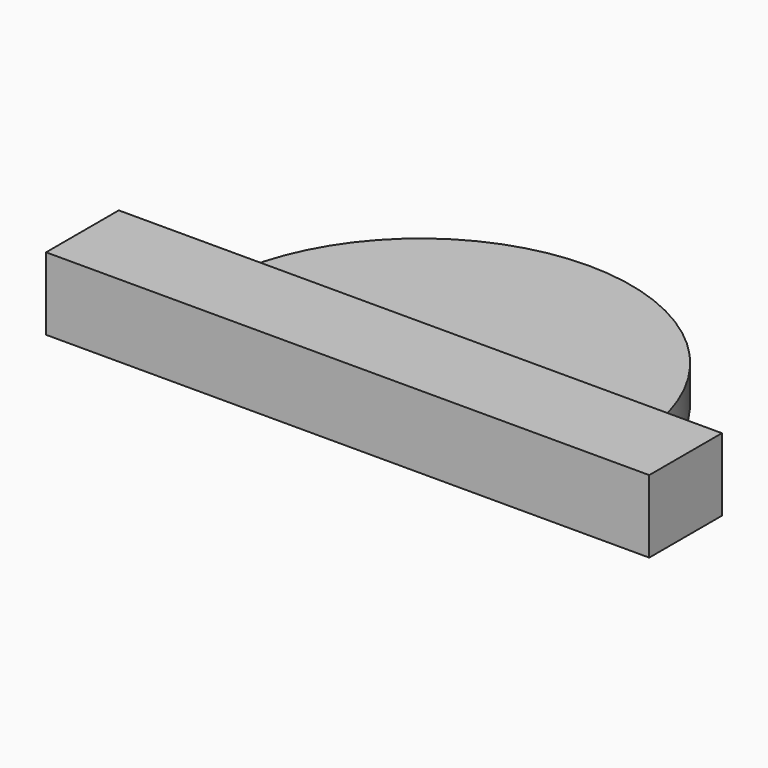
from build123d import *

# Parameters (mm, degrees)
F1_DEPTH = 2.54
F2_W     = 42.164
F2_H     = 6.35
F3_DEPTH = 5.08


with BuildPart() as f1:
    # F0 (on Top) → F1 (new body)
    with BuildSketch(Plane.XY):
        with BuildLine():
            Line((-14.732, 0), (14.732, 0))
            ThreePointArc((14.732, 0), (0, 14.732), (-14.732, 0))
        make_face()
    extrude(amount=F1_DEPTH)

    # F2 (on Top) → F3 (join)
    with BuildSketch(Plane.XY):
        with Locations((0, -3.175)):
            Rectangle(F2_W, F2_H)
    extrude(amount=F3_DEPTH)


solid = f1.part
